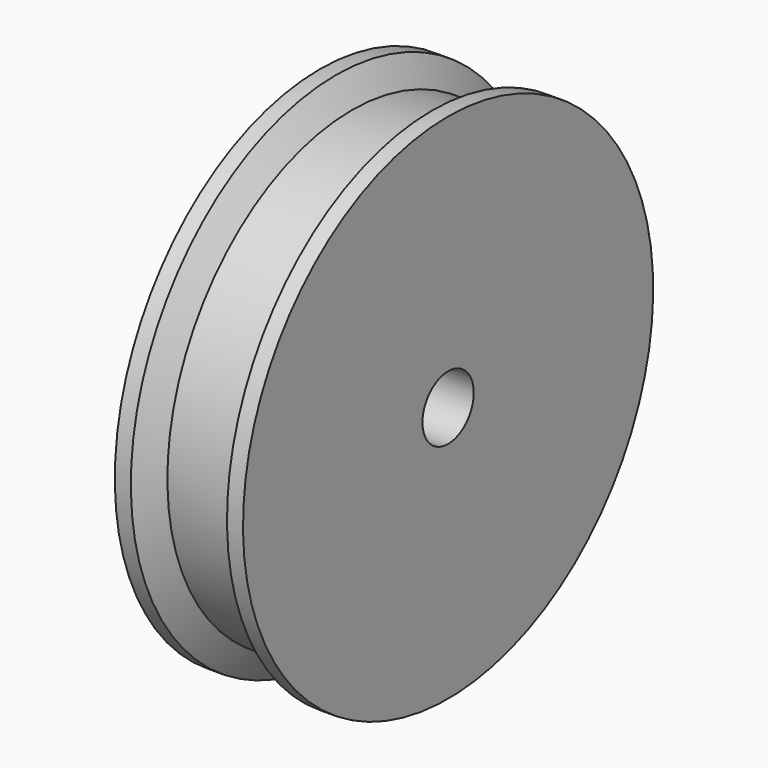
from build123d import *


with BuildPart() as f1:
    # F0 (on Front) → F1 (revolve)
    with BuildSketch(Plane.XZ):
        Polygon((-5, 5), (-5, 0), (5, 0), (5, 5), (2.5, 5), (-2.5, 5), align=None)
        Polygon((-5, 12.5), (-5, 5), (-2.5, 5), (2.5, 5), (5, 5), (5, 12.5), (2.5, 12.5), (-2.5, 12.5), align=None)
        Polygon((-5, 17.5), (-5, 12.5), (-2.5, 12.5), (2.5, 12.5), (5, 12.5), (5, 17.5), (3.75, 17.5), (2.5, 15.500004), (-2.5, 15.500004), (-3.75, 17.5), align=None)
    revolve(axis=Axis((0.313021, 0, -2.5), (1, 0, 0)))


solid = f1.part
